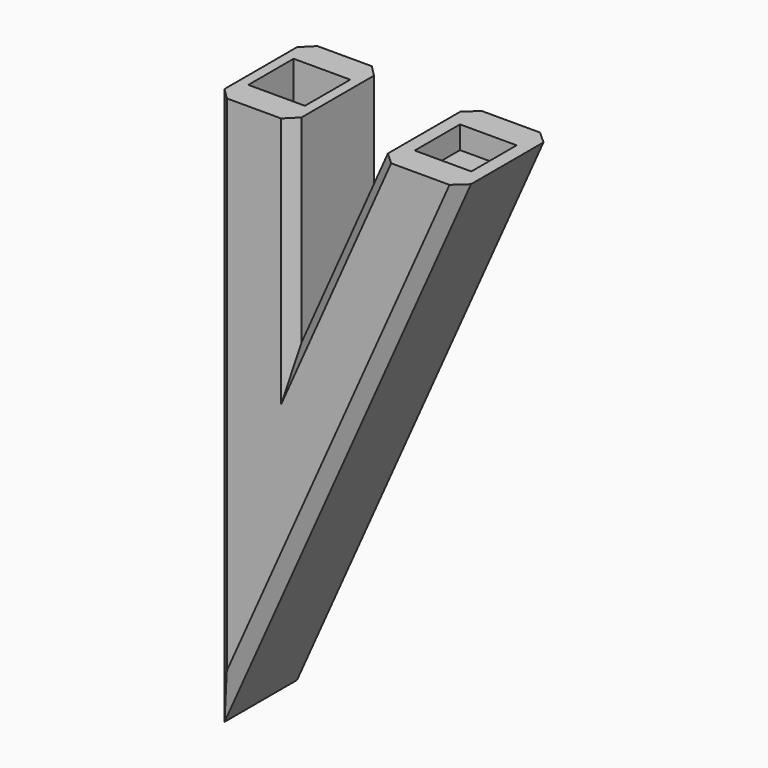
from build123d import *

# Parameters (mm, degrees)
F1_DEPTH = 10
F2_W     = 5
F2_H     = 5
F3_DEPTH = 5
F4_W     = 5
F4_H     = 5
F5_DEPTH = 2
F6_SIZE  = 1


with BuildPart() as f1:
    # F0 (on Front) → F1 (new body)
    with BuildSketch(Plane.XZ):
        Polygon((0, 49.2), (0, 0), (21.76041, 48.874682), (14.42041, 48.874682), (6.8, 31.7), (6.8, 49.2), align=None)
    extrude(amount=F1_DEPTH)

    # F2 (on face) → F3 (cut)
    with BuildSketch(Plane.XY.offset(49.2)):
        with Locations((3.4, -5)):
            Rectangle(F2_W, F2_H)
    extrude(amount=-F3_DEPTH, mode=Mode.SUBTRACT)

    # F4 (on face) → F5 (cut)
    with BuildSketch(Plane.XY.offset(48.874682)):
        with Locations((18.09041, -5)):
            Rectangle(F4_W, F4_H)
    extrude(amount=-F5_DEPTH, mode=Mode.SUBTRACT)

    # F6
    f6_edges = [f1.edges().sort_by_distance(p)[0] for p in [
        (6.8, -10, 40.45),
        (0, -10, 24.6),
        (10.610205, -10, 40.287341),
        (6.8, 0, 40.45),
        (10.880205, 0, 24.437341),
        (10.610205, 0, 40.287341),
        (10.880205, -10, 24.437341),
        (0, 0, 24.6),
    ]]
    chamfer(f6_edges, length=F6_SIZE)


solid = f1.part
